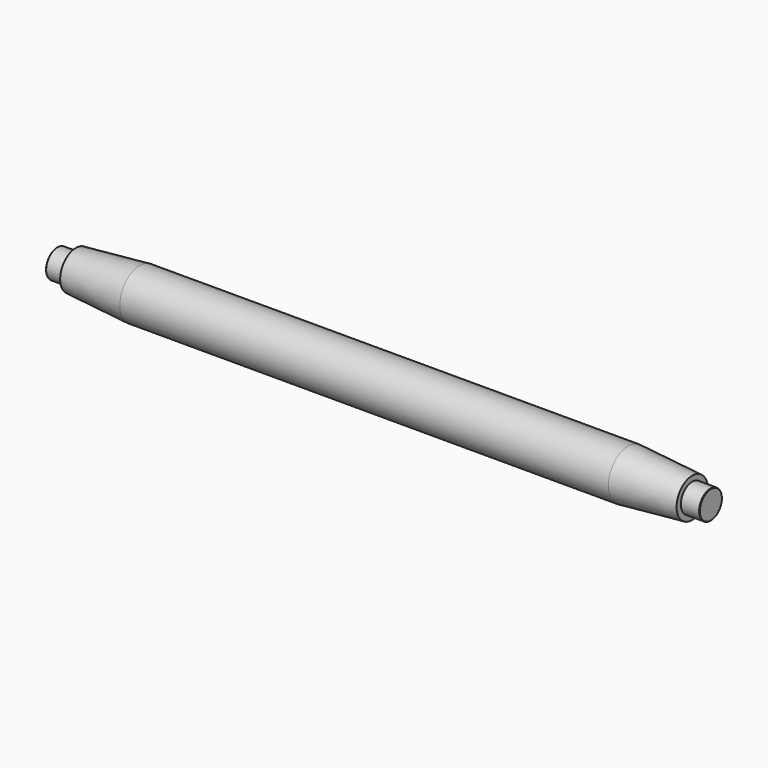
from build123d import *

# Parameters (mm, degrees)
F0_R      = 88.9
F1_DEPTH  = 873.125
F1_FACE_R = 88.9
F3_R      = 69.85
F5_R      = 50.8
F6_DEPTH  = 66.802
F7_SIZE   = 1.524


with BuildPart() as f1:
    # F0 (on Right) → F1 (new body, symmetric)
    with BuildSketch(Plane.YZ):
        Circle(F0_R)
    extrude(amount=F1_DEPTH, both=True)

    # F1_face (on face) → F4 section 0
    with BuildSketch(Plane.YZ.offset(873.125)):
        Circle(F1_FACE_R)
    # F3 (on offset) → F4 section 1
    with BuildSketch(Plane.YZ.offset(1101.725)):
        Circle(F3_R)
    loft()

    # F5 (on face) → F6 (join)
    with BuildSketch(Plane.YZ.offset(1101.725)):
        Circle(F5_R)
    extrude(amount=F6_DEPTH)

    # F7
    f7_edges = [f1.edges().sort_by_distance(p)[0] for p in [
        (1168.527, -50.8, 0),
    ]]
    chamfer(f7_edges, length=F7_SIZE)

    # F8: F1 across plane


with BuildPart() as f1_1:
    add(f1.part)
    add(f1.part.mirror(Plane.YZ))


solid = f1_1.part
